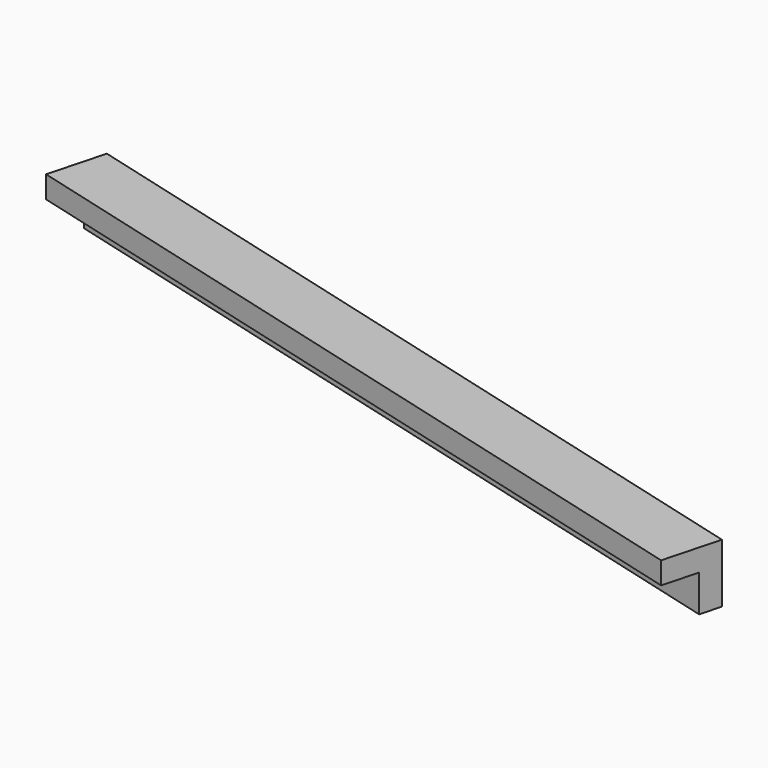
from build123d import *

# Parameters (mm, degrees)
BOX113_W               = 0.8
BOX113_H               = 11
BOX113_DEPTH           = 0.8
BOX114_W               = 0.8
BOX114_H               = 11
BOX114_DEPTH           = 0.8
CUT060_PLACEMENT_ANGLE = 75


with BuildPart() as cubo113:
    # Box113 → Box113 (new body)
    with BuildSketch(Plane.XY):
        with Locations((0.4, 5.5)):
            Rectangle(BOX113_W, BOX113_H)
    extrude(amount=BOX113_DEPTH)


with BuildPart() as obj1:
    # Box114 → Box114 (new body)
    with BuildSketch(Plane(origin=(0.3, 0, 0.3), x_dir=(1, 0, 0), z_dir=(0, 0, 1))):
        with Locations((0.4, 5.5)):
            Rectangle(BOX114_W, BOX114_H)
    extrude(amount=BOX114_DEPTH)

    # Cut060: cut Cubo113
    add(cubo113.part, mode=Mode.SUBTRACT)


with BuildPart() as obj1_1:
    # Cut060 placement: moved
    add(obj1.part.moved(Location((-209, 55.6, -1.45))).rotate(Axis((-209, 55.6, -1.45), (0, 0, 1)), CUT060_PLACEMENT_ANGLE))


solid = obj1_1.part
